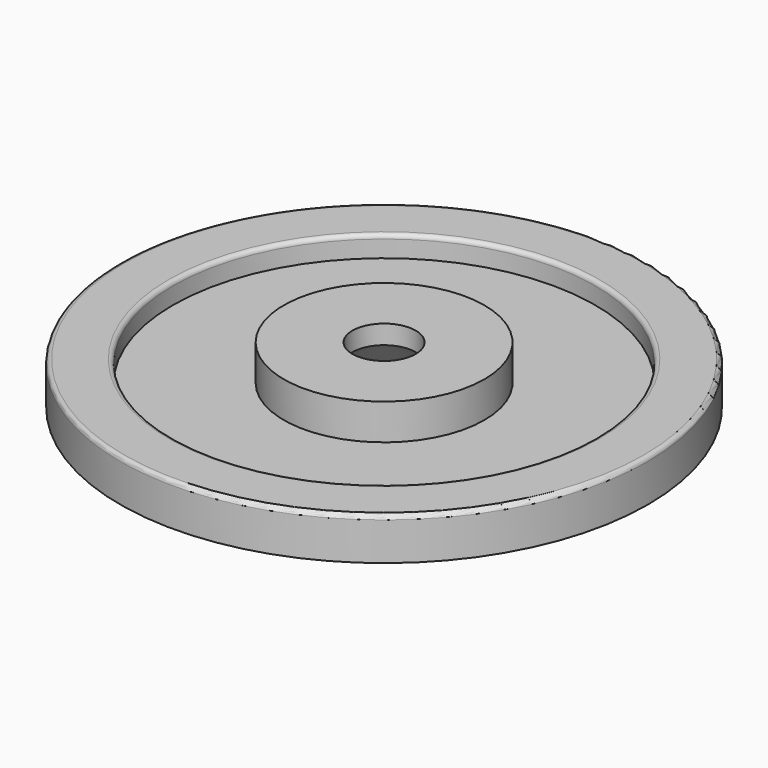
from build123d import *

# Parameters (mm, degrees)
F0_R     = 12.5
F1_DEPTH = 2
F2_R     = 10
F3_DEPTH = 1
F4_R     = 4.75
F5_DEPTH = 1.7
F6_R     = 1.5
F7_DEPTH = 25
F8_SIZE  = 1.8
F9_R     = 0.2


with BuildPart() as f1:
    # F0 (on Top) → F1 (new body)
    with BuildSketch(Plane.XY):
        Circle(F0_R)
    extrude(amount=F1_DEPTH)

    # F2 (on face) → F3 (cut)
    with BuildSketch(Plane.XY.offset(2)):
        Circle(F2_R)
    extrude(amount=-F3_DEPTH, mode=Mode.SUBTRACT)

    # F4 (on face) → F5 (join)
    with BuildSketch(Plane.XY.offset(1)):
        Circle(F4_R)
    extrude(amount=F5_DEPTH)

    # F6 (on face) → F7 (cut)
    with BuildSketch(Plane.XY.offset(2.7)):
        Circle(F6_R)
    extrude(amount=-F7_DEPTH, mode=Mode.SUBTRACT)

    # F8
    f8_edges = [f1.edges().sort_by_distance(p)[0] for p in [
        (-1.5, 0, 0),
    ]]
    chamfer(f8_edges, length=F8_SIZE)

    # F9
    f9_edges = [f1.edges().sort_by_distance(p)[0] for p in [
        (-12.5, 0, 2),
        (-10, 0, 2),
    ]]
    fillet(f9_edges, radius=F9_R)


solid = f1.part
